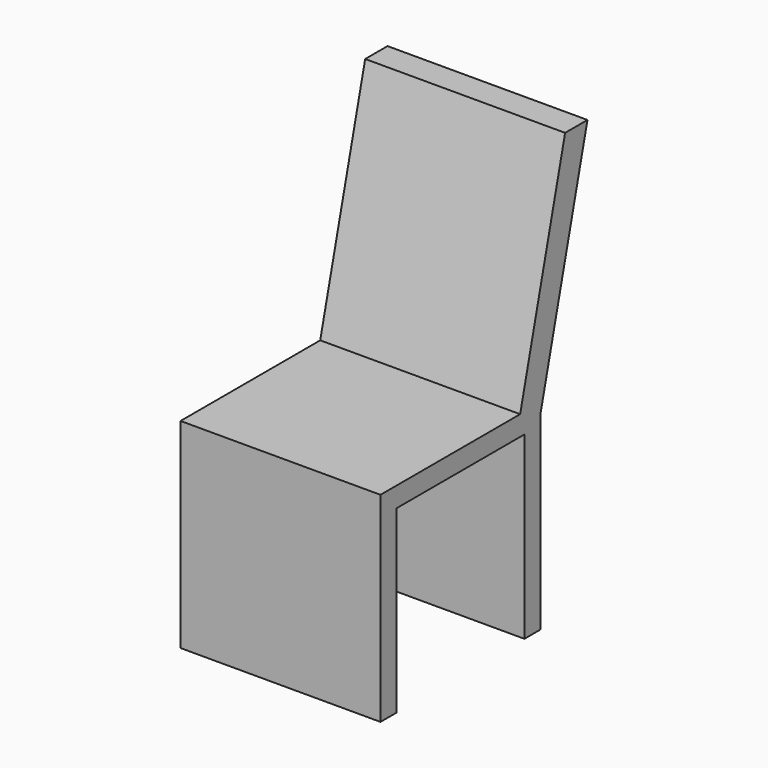
from build123d import *

# Parameters (mm, degrees)
F0_W     = 25.4
F0_H     = 25.4
F1_DEPTH = 25.4
F2_T     = -2.54
F4_DEPTH = 25.4


with BuildPart() as f1:
    # F0 (on Top) → F1 (new body)
    with BuildSketch(Plane.XY):
        with Locations((-12.7, -12.7)):
            Rectangle(F0_W, F0_H)
    extrude(amount=F1_DEPTH)

    # F2
    f2_openings = [f1.faces().sort_by_distance(p)[0] for p in [
        (0, -12.7, 12.7),
        (-25.4, -12.7, 12.7),
        (-12.7, -12.7, 0),
    ]]
    offset(amount=F2_T, openings=f2_openings)

    # F3 (on Right) → F4 (join)
    with BuildSketch(Plane.YZ):
        Polygon((-3.526252, 24.17282), (0, 24.087025), (7.468844, 53.962406), (3.921144, 53.962406), align=None)
    extrude(amount=-F4_DEPTH)


solid = f1.part
